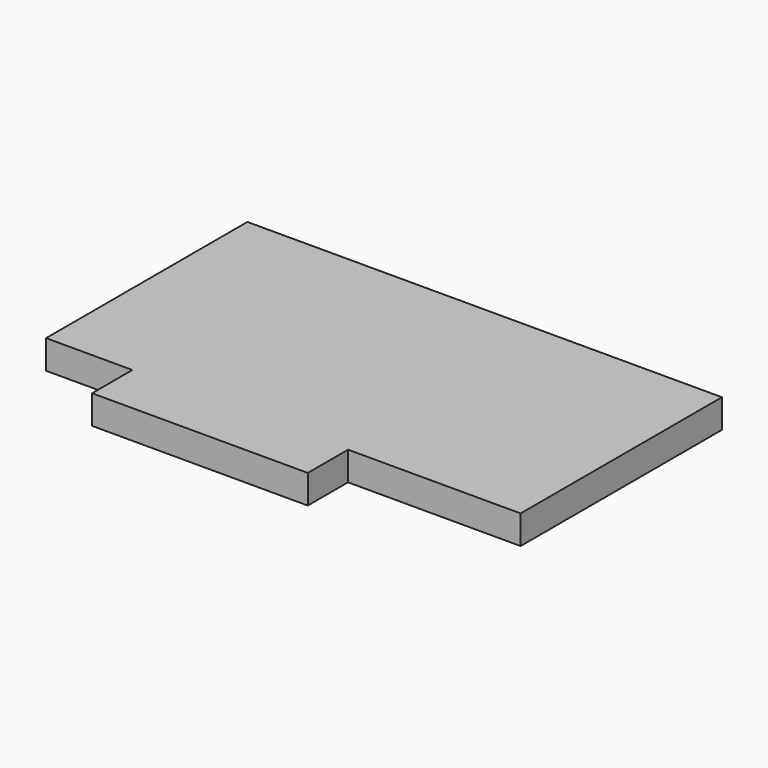
from build123d import *

# Parameters (mm, degrees)
PAD_DEPTH = 4


with BuildPart() as part:
    # Sketch → Pad (new body)
    with BuildSketch(Plane.XY):
        Polygon((0, 0), (12, 0), (12, -7), (42, -7), (42, 0), (66, 0), (66, 35), (0, 35), align=None)
    extrude(amount=PAD_DEPTH)


solid = part.part
